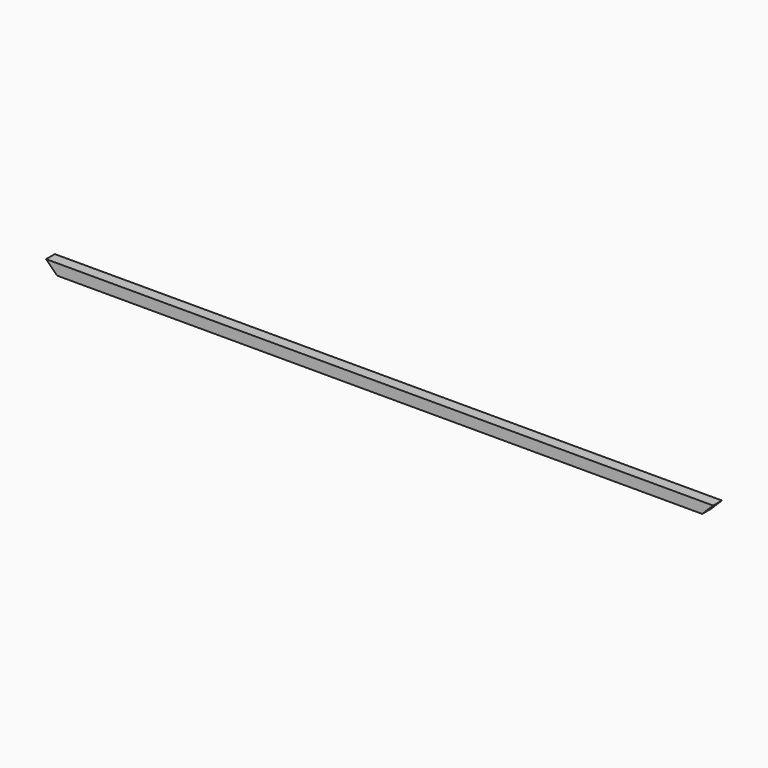
from build123d import *

# Parameters (mm, degrees)
F0_W     = 25
F0_H     = 25
F1_DEPTH = 1524
F3_DEPTH = 12.5
F4_W     = 22
F4_H     = 22
F5_DEPTH = 1524.001


with BuildPart() as f1:
    # F0 (on Right) → F1 (new body)
    with BuildSketch(Plane.YZ):
        Rectangle(F0_W, F0_H)
    extrude(amount=F1_DEPTH)

    # F2 (on Front) → F3 (cut, symmetric)
    with BuildSketch(Plane.XZ):
        Polygon((35.352029, -22.745401), (0, 12.606628), (0, -26.686775), align=None)
        Polygon((1524, -22.745401), (1524, 12.5), (1494.63703, -16.86297), align=None)
    extrude(amount=F3_DEPTH, both=True, mode=Mode.SUBTRACT)

    # F4 (on Right) → F5 (cut, through all)
    with BuildSketch(Plane.YZ):
        Rectangle(F4_W, F4_H)
    extrude(amount=F5_DEPTH, mode=Mode.SUBTRACT)


solid = f1.part
